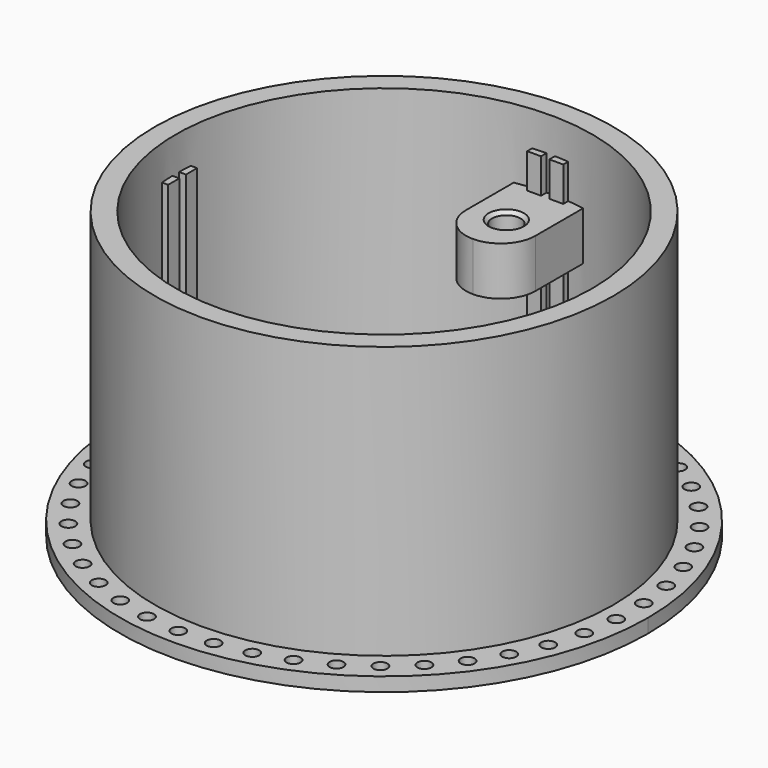
from build123d import *

# Parameters (mm, degrees)
SKETCH_R              = 38
PAD_DEPTH             = 2
SKETCH001_R           = 33
PAD001_DEPTH          = 39.15
SKETCH002_R           = 30
POCKET_DEPTH          = 41.151
SKETCH010_R           = 1
POCKET005_DEPTH       = 5
POLARPATTERN002_COUNT = 45
SKETCH011_R           = 30
PAD005_DEPTH          = 2
SKETCH012_R           = 29
POCKET006_DEPTH       = 2.001
SKETCH013_W           = 2
SKETCH013_H           = 2
PAD006_DEPTH          = 34.15
POLARPATTERN003_COUNT = 4
POCKET008_DEPTH       = 5
SKETCH022_W           = 10
SKETCH022_H           = 15
PAD008_DEPTH          = 7
SKETCH039_R           = 2.05
POCKET025_DEPTH       = 5.5
CHAMFER014_SIZE       = 0.5
FILLET008_R           = 4.99


with BuildPart() as part:
    # Sketch → Pad (new body)
    with BuildSketch(Plane.XY):
        Circle(SKETCH_R)
    extrude(amount=PAD_DEPTH)

    # Sketch001 (on Face3 of Pad) → Pad001 (join)
    with BuildSketch(Plane.XY.offset(2)):
        Circle(SKETCH001_R)
    extrude(amount=PAD001_DEPTH)

    # Sketch002 (on Face5 of Pad001) → Pocket (cut, through all)
    with BuildSketch(Plane.XY.offset(41.15)):
        Circle(SKETCH002_R)
    extrude(amount=-POCKET_DEPTH, mode=Mode.SUBTRACT)

    # Sketch010 (on Face3 of Pocket) → Pocket005 (cut)
    with BuildSketch(Plane.XY.offset(2)):
        with Locations((-35.5, 0)):
            Circle(SKETCH010_R)
    pocket005 = extrude(amount=-POCKET005_DEPTH, mode=Mode.SUBTRACT)

    # PolarPattern002: Pocket005 ×45 about axis
    polarpattern002_axis = Axis((0, 0, 2), (0, 0, 1))
    for i in range(1, POLARPATTERN002_COUNT):
        add(pocket005.rotate(polarpattern002_axis, i * 360 / POLARPATTERN002_COUNT), mode=Mode.SUBTRACT)

    # Sketch011 (on Face2 of PolarPattern002) → Pad005 (join)
    with BuildSketch(Plane(origin=(0, 0, 0), x_dir=(1, 0, 0), z_dir=(0, 0, -1))):
        Circle(SKETCH011_R)
    extrude(amount=-PAD005_DEPTH)

    # Sketch012 (on Face51 of Pad005) → Pocket006 (cut, through all)
    with BuildSketch(Plane.XY.offset(2)):
        Circle(SKETCH012_R)
    extrude(amount=-POCKET006_DEPTH, mode=Mode.SUBTRACT)

    # Sketch013 (on Face51 of Pocket006) → Pad006 (join)
    with BuildSketch(Plane.XY.offset(2)):
        with Locations((-30, 1.6)):
            Rectangle(SKETCH013_W, SKETCH013_H)
        with Locations((-30, -1.6)):
            Rectangle(SKETCH013_W, SKETCH013_H)
    pad006 = extrude(amount=PAD006_DEPTH)

    # PolarPattern003: Pad006 ×4 about axis
    polarpattern003_axis = Axis((0, 0, 2), (0, 0, 1))
    for i in range(1, POLARPATTERN003_COUNT):
        add(pad006.rotate(polarpattern003_axis, i * 360 / POLARPATTERN003_COUNT))

    # Sketch015 → Pocket008 (cut)
    with BuildSketch(Plane.XY.offset(5)):
        Polygon((-38, 0.707107), (-38.707107, 0), (-38, -0.707107), (-37.292893, 0), align=None)
    extrude(amount=-POCKET008_DEPTH, mode=Mode.SUBTRACT)

    # Sketch022 (on DatumPlane) → Pad008 (join)
    with BuildSketch(Plane.XY.offset(24.15)):
        with Locations((0, -23.5)):
            Rectangle(SKETCH022_W, SKETCH022_H)
        with Locations((0, 23.5)):
            Rectangle(SKETCH022_W, SKETCH022_H)
    extrude(amount=PAD008_DEPTH)

    # Sketch039 (on Face85 of Pad008) → Pocket025 (cut)
    with BuildSketch(Plane.XY.offset(31.15)):
        with Locations((0, 22)):
            Circle(SKETCH039_R)
        with Locations((0, -22)):
            Circle(SKETCH039_R)
    extrude(amount=-POCKET025_DEPTH, mode=Mode.SUBTRACT)

    # Chamfer014
    chamfer014_edges = [part.edges().sort_by_distance(p)[0] for p in [
        (-2.05, -22, 31.15),
        (-2.05, 22, 31.15),
    ]]
    chamfer(chamfer014_edges, length=CHAMFER014_SIZE)

    # Fillet008
    fillet008_edges = [part.edges().sort_by_distance(p)[0] for p in [
        (5, -16, 27.65),
        (-5, -16, 27.65),
        (5, 16, 27.65),
        (-5, 16, 27.65),
    ]]
    fillet(fillet008_edges, radius=FILLET008_R)


solid = part.part
